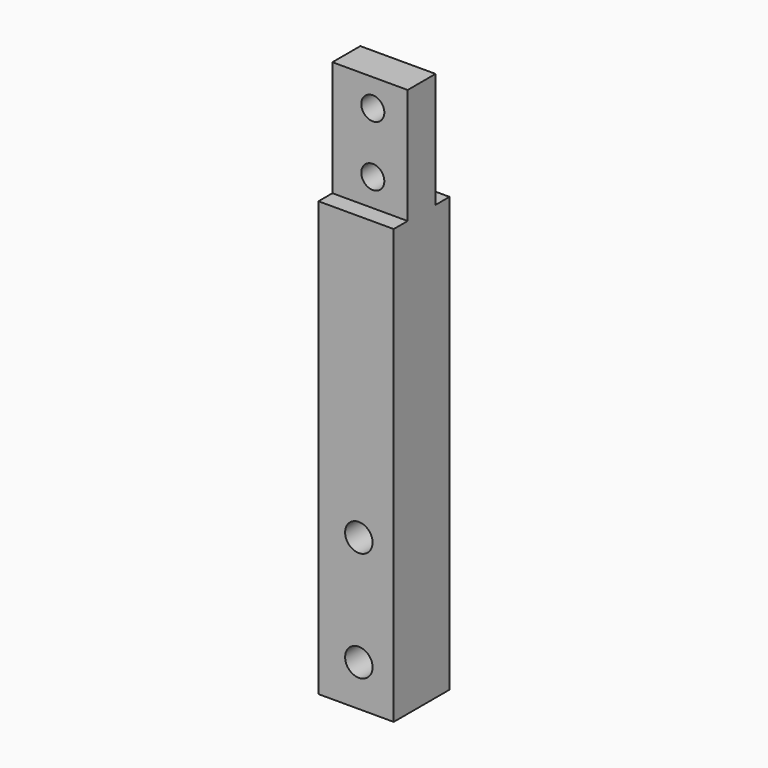
from build123d import *

# Parameters (mm, degrees)
F0_W     = 12.7
F0_H     = 100
F0_R     = 2.5
F1_DEPTH = 12.7
F3_D     = 4.2
F4_W     = 3.175
F4_H     = 21
F5_DEPTH = 12.701
F6_DEPTH = 1


with BuildPart() as f1:
    # F0 (on Front) → F1 (new body)
    with BuildSketch(Plane.XZ):
        Rectangle(F0_W, F0_H)
        with Locations((0, -42.5)):
            Circle(F0_R, mode=Mode.SUBTRACT)
        with Locations((0, -22.5)):
            Circle(F0_R, mode=Mode.SUBTRACT)
    extrude(amount=F1_DEPTH)

    # F3 (through all)
    with Locations(Plane.XZ.offset(12.7)):
        with Locations((0, 45), (0, 34)):
            Hole(F3_D / 2)

    # F4 (on face) → F5 (cut, through all)
    with BuildSketch(Plane(origin=(-6.35, 0, 0), x_dir=(0, -1, 0), z_dir=(-1, 0, 0))):
        with Locations((1.5875, 39.5)):
            Rectangle(F4_W, F4_H)
        with Locations((11.1125, 39.5)):
            Rectangle(F4_W, F4_H)
    extrude(amount=-F5_DEPTH, mode=Mode.SUBTRACT)

    # F6 (add): a face of the model
    f6_faces = [f1.faces().sort_by_distance(p)[0] for p in [
        (-6.35, -6.35, -4.6340782123),
    ]]
    extrude(f6_faces, amount=F6_DEPTH)


solid = f1.part
